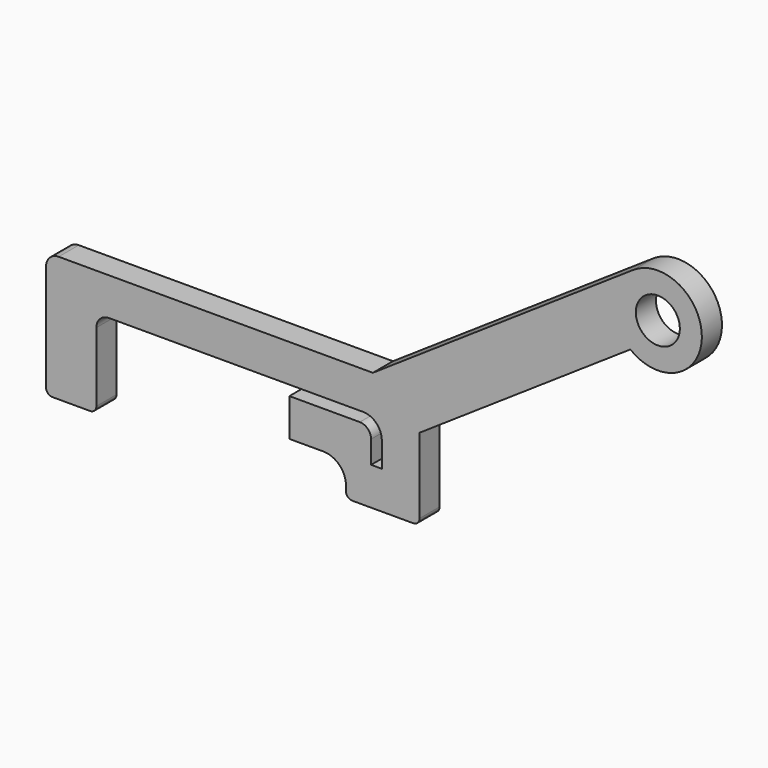
from build123d import *

# Parameters (mm, degrees)
F0_R     = 4.445
F1_DEPTH = 5.08


with BuildPart() as f1:
    # F0 (on Front) → F1 (new body)
    with BuildSketch(Plane.XZ):
        with BuildLine():
            ThreePointArc((-21.142008, -2.54), (-20.39806, -0.743949), (-18.602008, 0))
            Line((-18.602008, 0), (32.705992, 0))
            ThreePointArc((32.705992, 0), (35.400068, -1.115923), (36.515992, -3.81))
            Line((36.515992, -3.81), (36.515992, -8.89))
            Line((36.515992, -8.89), (34.356992, -8.89))
            Line((34.356992, -8.89), (34.356992, -4.318))
            ThreePointArc((34.356992, -4.318), (33.687438, -2.701554), (32.070992, -2.032))
            Line((32.070992, -2.032), (29.276992, -2.032))
            Line((29.276992, -2.032), (17.846992, -2.032))
            Line((17.846992, -2.032), (17.846992, -9.652))
            Line((17.846992, -9.652), (24.704992, -9.652))
            ThreePointArc((24.704992, -9.652), (27.937884, -10.991108), (29.276992, -14.224))
            Line((29.276992, -14.224), (29.276992, -15.24))
            ThreePointArc((29.276992, -15.24), (29.648966, -16.138026), (30.546992, -16.51))
            Line((30.546992, -16.51), (42.865992, -16.51))
            ThreePointArc((42.865992, -16.51), (43.764017, -16.138026), (44.135992, -15.24))
            Line((44.135992, -15.24), (44.135992, 0))
            Line((44.135992, 0), (86.733378, 28.665335))
            ThreePointArc((86.733378, 28.665335), (101.15659, 35.211777), (87.387981, 43.04187))
            Line((87.387981, 43.04187), (34.705732, 7.590063))
            Line((34.705732, 7.590063), (-28.762008, 7.590063))
            ThreePointArc((-28.762008, 7.590063), (-30.55806, 6.846114), (-31.302008, 5.050063))
            Line((-31.302008, 5.050063), (-31.302008, 0))
            Line((-31.302008, 0), (-31.302008, -16.51))
            ThreePointArc((-31.302008, -16.51), (-30.930034, -17.408026), (-30.032008, -17.78))
            Line((-30.032008, -17.78), (-22.412008, -17.78))
            ThreePointArc((-22.412008, -17.78), (-21.513983, -17.408026), (-21.142008, -16.51))
            Line((-21.142008, -16.51), (-21.142008, -2.54))
        make_face()
        with Locations((92.275792, 35.616144)):
            Circle(F0_R, mode=Mode.SUBTRACT)
    extrude(amount=F1_DEPTH)


solid = f1.part
